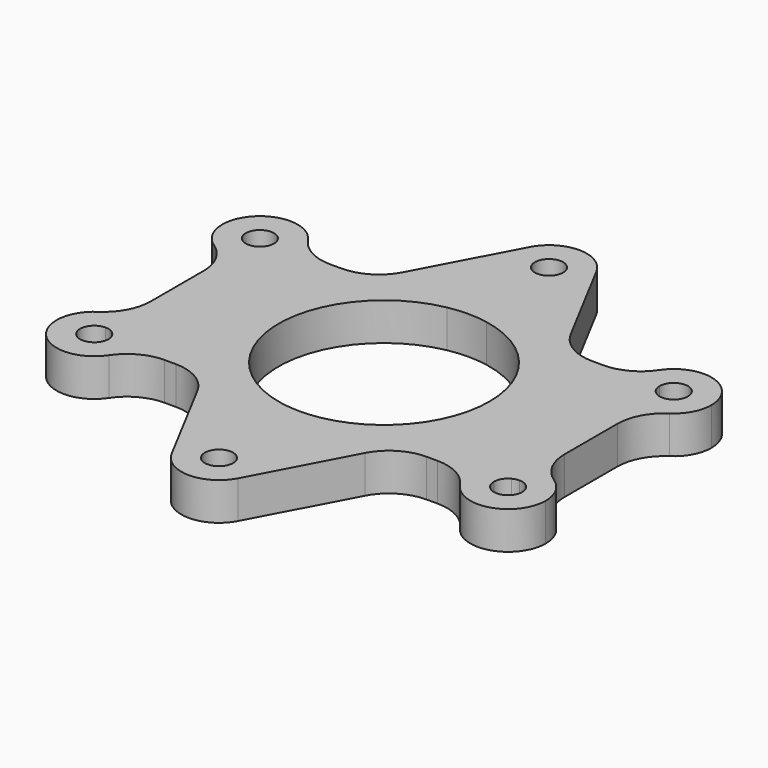
from build123d import *

# Parameters (mm, degrees)
F0_R     = 1.5
F1_DEPTH = 4
F2_R     = 5


with BuildPart() as f1:
    # F0 (on Top) → F1 (new body)
    with BuildSketch(Plane.XY):
        with BuildLine():
            Line((-17.981, -11), (-10.3136468418, -11))
            Line((-10.3136468418, -11), (-16.1473234209, 0))
            Line((-16.1473234209, 0), (-20.1069034152, -7.4661972337))
            ThreePointArc((-20.1069034152, -7.4661972337), (-18.5534362632, -8.938009013), (-17.981, -11))
        make_face()
        with BuildLine():
            Line((-20.1069034152, -7.4661972337), (-16.1473234209, 0))
            Line((-16.1473234209, 0), (-20.1069034152, 7.4661972337))
            ThreePointArc((-20.1069034152, 7.4661972337), (-21.0153942484, 7.1182986291), (-21.981, 7))
            Line((-21.981, 7), (-21.981, -7))
            ThreePointArc((-21.981, -7), (-21.0153942484, -7.1182986291), (-20.1069034152, -7.4661972337))
        make_face()
        with BuildLine():
            Line((-16.1473234209, 0), (-10.3136468418, 11))
            Line((-10.3136468418, 11), (-17.981, 11))
            ThreePointArc((-17.981, 11), (-18.5534362632, 8.938009013), (-20.1069034152, 7.4661972337))
            Line((-20.1069034152, 7.4661972337), (-16.1473234209, 0))
        make_face()
        with BuildLine():
            ThreePointArc((-20.1069034152, 7.4661972337), (-18.5534362632, 8.938009013), (-17.981, 11))
            Line((-17.981, 11), (-20.481, 11))
            ThreePointArc((-20.481, 11), (-20.6956635987, 10.2267533799), (-21.2782137807, 9.6748239626))
            Line((-21.2782137807, 9.6748239626), (-20.1069034152, 7.4661972337))
        make_face()
        with BuildLine():
            Line((-20.481, 11), (-17.981, 11))
            ThreePointArc((-17.981, 11), (-24.8094271247, 13.8284271247), (-21.981, 7))
            Line((-21.981, 7), (-21.981, 9.5))
            ThreePointArc((-21.981, 9.5), (-23.0416601718, 12.0606601718), (-20.481, 11))
        make_face()
        with BuildLine():
            ThreePointArc((-21.981, 7), (-21.0153942484, 7.1182986291), (-20.1069034152, 7.4661972337))
            Line((-20.1069034152, 7.4661972337), (-21.2782137807, 9.6748239626))
            ThreePointArc((-21.2782137807, 9.6748239626), (-21.6188978432, 9.5443619859), (-21.981, 9.5))
            Line((-21.981, 9.5), (-21.981, 7))
        make_face()
        with BuildLine():
            Line((-21.2782137807, -9.6748239626), (-20.1069034152, -7.4661972337))
            ThreePointArc((-20.1069034152, -7.4661972337), (-21.0153942484, -7.1182986291), (-21.981, -7))
            Line((-21.981, -7), (-21.981, -9.5))
            ThreePointArc((-21.981, -9.5), (-21.6188978432, -9.5443619859), (-21.2782137807, -9.6748239626))
        make_face()
        with BuildLine():
            Line((-20.481, -11), (-17.981, -11))
            ThreePointArc((-17.981, -11), (-18.5534362632, -8.938009013), (-20.1069034152, -7.4661972337))
            Line((-20.1069034152, -7.4661972337), (-21.2782137807, -9.6748239626))
            ThreePointArc((-21.2782137807, -9.6748239626), (-20.6956635987, -10.2267533799), (-20.481, -11))
        make_face()
        with BuildLine():
            ThreePointArc((-21.981, -7), (-24.8094271247, -13.8284271247), (-17.981, -11))
            Line((-17.981, -11), (-20.481, -11))
            ThreePointArc((-20.481, -11), (-23.0416601718, -12.0606601718), (-21.981, -9.5))
            Line((-21.981, -9.5), (-21.981, -7))
        make_face()
        with BuildLine():
            Line((17.981, -11), (20.481, -11))
            ThreePointArc((20.481, -11), (20.6956635987, -10.2267533799), (21.2782137807, -9.6748239626))
            Line((21.2782137807, -9.6748239626), (20.1069034152, -7.4661972337))
            ThreePointArc((20.1069034152, -7.4661972337), (18.5534362632, -8.938009013), (17.981, -11))
        make_face()
        with BuildLine():
            ThreePointArc((21.2782137807, -9.6748239626), (21.6188978432, -9.5443619859), (21.981, -9.5))
            Line((21.981, -9.5), (21.981, -7))
            ThreePointArc((21.981, -7), (21.0153942484, -7.1182986291), (20.1069034152, -7.4661972337))
            Line((20.1069034152, -7.4661972337), (21.2782137807, -9.6748239626))
        make_face()
        with BuildLine():
            ThreePointArc((23.481, -11), (21.981, -12.5), (20.481, -11))
            Line((20.481, -11), (17.981, -11))
            ThreePointArc((17.981, -11), (21.981, -15), (25.981, -11))
            ThreePointArc((25.981, -11), (24.8094271247, -8.1715728753), (21.981, -7))
            Line((21.981, -7), (21.981, -9.5))
            ThreePointArc((21.981, -9.5), (23.0416601718, -9.9393398282), (23.481, -11))
        make_face()
        with BuildLine():
            ThreePointArc((17.981, 11), (18.5534362632, 8.938009013), (20.1069034152, 7.4661972337))
            Line((20.1069034152, 7.4661972337), (21.2782137807, 9.6748239626))
            ThreePointArc((21.2782137807, 9.6748239626), (20.6956635987, 10.2267533799), (20.481, 11))
            Line((20.481, 11), (17.981, 11))
        make_face()
        with BuildLine():
            ThreePointArc((20.1069034152, 7.4661972337), (21.0153942484, 7.1182986291), (21.981, 7))
            Line((21.981, 7), (21.981, 9.5))
            ThreePointArc((21.981, 9.5), (21.6188978432, 9.5443619859), (21.2782137807, 9.6748239626))
            Line((21.2782137807, 9.6748239626), (20.1069034152, 7.4661972337))
        make_face()
        with BuildLine():
            Line((21.981, 9.5), (21.981, 7))
            ThreePointArc((21.981, 7), (24.8094271247, 8.1715728753), (25.981, 11))
            ThreePointArc((25.981, 11), (21.981, 15), (17.981, 11))
            Line((17.981, 11), (20.481, 11))
            ThreePointArc((20.481, 11), (21.981, 12.5), (23.481, 11))
            ThreePointArc((23.481, 11), (23.0416601718, 9.9393398282), (21.981, 9.5))
        make_face()
        with BuildLine():
            ThreePointArc((20.1069034152, -7.4661972337), (21.0153942484, -7.1182986291), (21.981, -7))
            Line((21.981, -7), (21.981, 7))
            ThreePointArc((21.981, 7), (21.0153942484, 7.1182986291), (20.1069034152, 7.4661972337))
            Line((20.1069034152, 7.4661972337), (16.1473234209, 0))
            Line((16.1473234209, 0), (20.1069034152, -7.4661972337))
        make_face()
        with BuildLine():
            Line((10.3136468418, 11), (16.1473234209, 0))
            Line((16.1473234209, 0), (20.1069034152, 7.4661972337))
            ThreePointArc((20.1069034152, 7.4661972337), (18.5534362632, 8.938009013), (17.981, 11))
            Line((17.981, 11), (10.3136468418, 11))
        make_face()
        with BuildLine():
            Line((10.3136468418, -11), (17.981, -11))
            ThreePointArc((17.981, -11), (18.5534362632, -8.938009013), (20.1069034152, -7.4661972337))
            Line((20.1069034152, -7.4661972337), (16.1473234209, 0))
            Line((16.1473234209, 0), (10.3136468418, -11))
        make_face()
        with BuildLine():
            Line((2.1071307506, -11), (10.3136468418, -11))
            Line((10.3136468418, -11), (16.1473234209, 0))
            Line((16.1473234209, 0), (10.3136468418, 11))
            Line((10.3136468418, 11), (2.1071307506, 11))
            ThreePointArc((2.1071307506, 11), (8.6324928151, 7.1358298604), (11.2, 0))
            ThreePointArc((11.2, 0), (8.6324928151, -7.1358298604), (2.1071307506, -11))
        make_face()
        with BuildLine():
            Line((-10.3136468418, -11), (-2.1071307506, -11))
            ThreePointArc((-2.1071307506, -11), (-11.2, 0), (-2.1071307506, 11))
            Line((-2.1071307506, 11), (-10.3136468418, 11))
            Line((-10.3136468418, 11), (-16.1473234209, 0))
            Line((-16.1473234209, 0), (-10.3136468418, -11))
        make_face()
        with BuildLine():
            Line((3.5338027663, -23.7840965848), (10.3136468418, -11))
            Line((10.3136468418, -11), (2.1071307506, -11))
            ThreePointArc((2.1071307506, -11), (0, -11.2), (-2.1071307506, -11))
            Line((-2.1071307506, -11), (-10.3136468418, -11))
            Line((-10.3136468418, -11), (-3.5338027663, -23.7840965848))
            ThreePointArc((-3.5338027663, -23.7840965848), (-0.9656057516, -18.0282986291), (4, -21.91))
            ThreePointArc((4, -21.91), (3.8817013709, -22.8756057516), (3.5338027663, -23.7840965848))
        make_face()
        with BuildLine():
            Line((2.1071307506, 11), (10.3136468418, 11))
            Line((10.3136468418, 11), (3.5338027663, 23.7840965848))
            ThreePointArc((3.5338027663, 23.7840965848), (3.8817013709, 22.8756057516), (4, 21.91))
            ThreePointArc((4, 21.91), (-0.9656057516, 18.0282986291), (-3.5338027663, 23.7840965848))
            Line((-3.5338027663, 23.7840965848), (-10.3136468418, 11))
            Line((-10.3136468418, 11), (-2.1071307506, 11))
            ThreePointArc((-2.1071307506, 11), (0, 11.2), (2.1071307506, 11))
        make_face()
        with BuildLine():
            ThreePointArc((4, 21.91), (3.8817013709, 22.8756057516), (3.5338027663, 23.7840965848))
            ThreePointArc((3.5338027663, 23.7840965848), (0, 25.91), (-3.5338027663, 23.7840965848))
            ThreePointArc((-3.5338027663, 23.7840965848), (-0.9656057516, 18.0282986291), (4, 21.91))
        make_face()
        with Locations((0, 21.91)):
            Circle(F0_R, mode=Mode.SUBTRACT)
        with BuildLine():
            ThreePointArc((-3.5338027663, -23.7840965848), (0, -25.91), (3.5338027663, -23.7840965848))
            ThreePointArc((3.5338027663, -23.7840965848), (3.8817013709, -22.8756057516), (4, -21.91))
            ThreePointArc((4, -21.91), (-0.9656057516, -18.0282986291), (-3.5338027663, -23.7840965848))
        make_face()
        with Locations((0, -21.91)):
            Circle(F0_R, mode=Mode.SUBTRACT)
    extrude(amount=F1_DEPTH)

    # F2
    f2_edges = [f1.edges().sort_by_distance(p)[0] for p in [
        (-17.981, -11, 2),
        (-10.313647, -11, 2),
        (-21.981, 7, 2),
        (-21.981, -7, 2),
        (-17.981, 11, 2),
        (-10.313647, 11, 2),
        (10.313647, 11, 2),
        (17.981, 11, 2),
        (21.981, 7, 2),
        (21.981, -7, 2),
        (17.981, -11, 2),
        (10.313647, -11, 2),
    ]]
    fillet(f2_edges, radius=F2_R)


solid = f1.part
